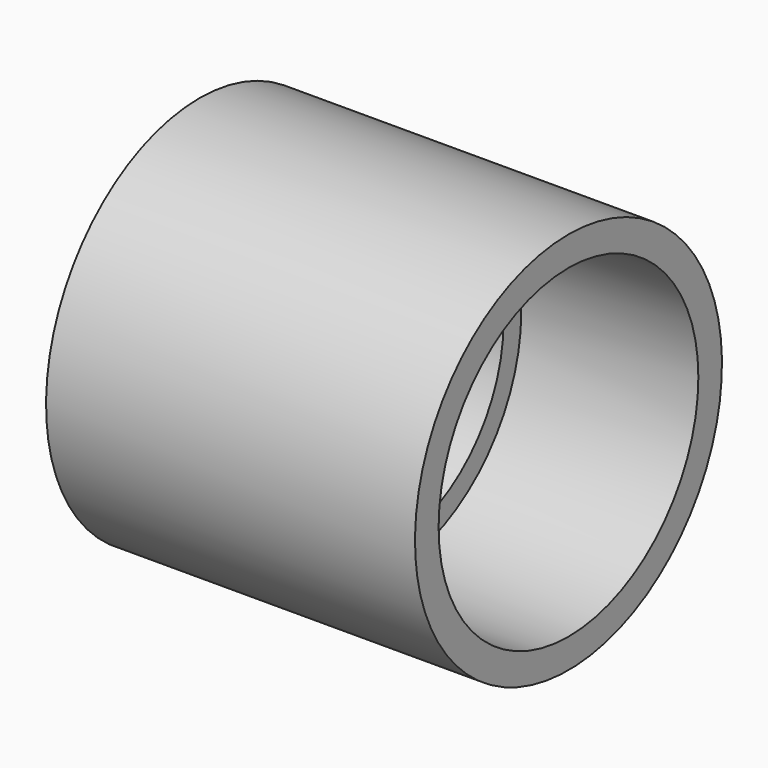
from build123d import *

# Parameters (mm, degrees)
F0_W     = 25
F0_H     = 13
F2_R     = 9.5
F3_DEPTH = 57.5
F2_R_2   = 11
F4_DEPTH = 12


with BuildPart() as f1:
    # F0 (on Front) → F1 (revolve)
    with BuildSketch(Plane.XZ):
        with Locations((12.5, 6.5)):
            Rectangle(F0_W, F0_H)
    revolve(axis=Axis((12.5, 0, 0), (1, 0, 0)))

    # F2 (on face) → F3 (cut)
    with BuildSketch(Plane.YZ.offset(25)):
        Circle(F2_R)
    extrude(amount=-F3_DEPTH, mode=Mode.SUBTRACT)

    # F2 (on face) → F4 (cut)
    with BuildSketch(Plane.YZ.offset(25)):
        Circle(F2_R_2)
        Circle(F2_R, mode=Mode.SUBTRACT)
    extrude(amount=-F4_DEPTH, mode=Mode.SUBTRACT)


solid = f1.part
